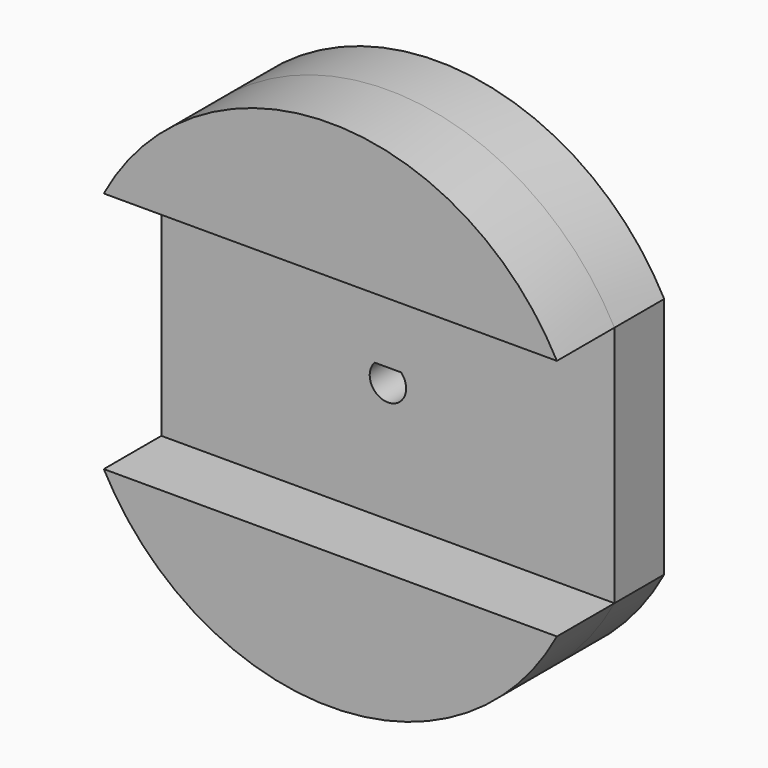
from build123d import *

# Parameters (mm, degrees)
F0_R     = 31.75
F0_R_2   = 2.25
F1_DEPTH = 4
F2_R     = 31.75
F3_DEPTH = 8
F5_DEPTH = 8.89
F7_DEPTH = 20.891
F8_R     = 39.6924295133
F9_DEPTH = 4.318


with BuildPart() as f1:
    # F0 (on Front) → F1 (new body)
    with BuildSketch(Plane.XZ):
        Circle(F0_R)
        Circle(F0_R_2, mode=Mode.SUBTRACT)
    extrude(amount=F1_DEPTH)

    # F2 (on face) → F3 (join)
    with BuildSketch(Plane.XZ.offset(4)):
        Circle(F2_R)
        with BuildLine():
            ThreePointArc((2.25, 0), (-0.8345241318, -2.0895141716), (-1.630950643, 1.55))
            ThreePointArc((-1.630950643, 1.55), (0, 2.25), (1.630950643, 1.55))
            ThreePointArc((1.630950643, 1.55), (2.0895141716, 0.8345241318), (2.25, 0))
        make_face(mode=Mode.SUBTRACT)
        with BuildLine():
            ThreePointArc((1.630950643, 1.55), (0, 2.25), (-1.630950643, 1.55))
            Line((-1.630950643, 1.55), (1.630950643, 1.55))
        make_face()
    extrude(amount=F3_DEPTH)

    # F4 (on face) → F5 (join)
    with BuildSketch(Plane.XZ.offset(12)):
        with BuildLine():
            ThreePointArc((27.990753902, 14.986), (0, 31.75), (-27.990753902, 14.986))
            Line((-27.990753902, 14.986), (27.990753902, 14.986))
        make_face()
        with BuildLine():
            Line((27.990753902, -14.986), (-27.990753902, -14.986))
            ThreePointArc((-27.990753902, -14.986), (0, -31.75), (27.990753902, -14.986))
        make_face()
    extrude(amount=F5_DEPTH)

    # F6 (on face) → F7 (cut, through all)
    with BuildSketch(Plane.XZ.offset(20.89)):
        with BuildLine():
            Line((-27.990753902, -14.986), (-27.990753902, 14.986))
            ThreePointArc((-27.990753902, 14.986), (-31.75, 0), (-27.990753902, -14.986))
        make_face()
        with BuildLine():
            ThreePointArc((27.990753902, -14.986), (30.795851477, -7.7251557788), (31.75, 0))
            ThreePointArc((31.75, 0), (30.795851477, 7.7251557788), (27.990753902, 14.986))
            Line((27.990753902, 14.986), (27.990753902, -14.986))
        make_face()
    extrude(amount=-F7_DEPTH, mode=Mode.SUBTRACT)

    # F8 (on face) → F9 (cut)
    with BuildSketch(Plane(origin=(0, 0, 0), x_dir=(-1, 0, 0), z_dir=(0, 1, 0))):
        Circle(F8_R)
    extrude(amount=-F9_DEPTH, mode=Mode.SUBTRACT)


solid = f1.part
